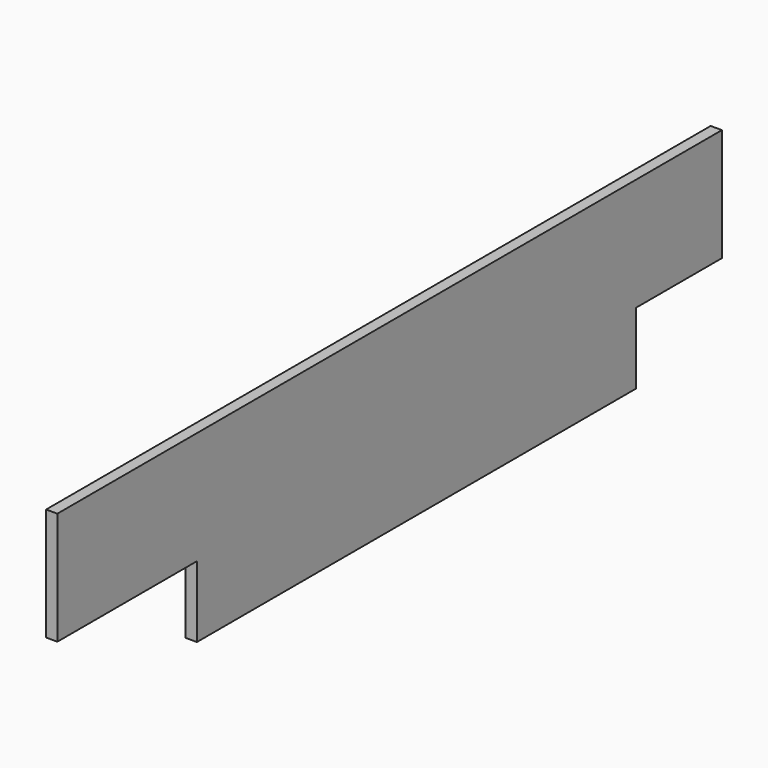
from build123d import *

# Parameters (mm, degrees)
BOX020_W     = 19
BOX020_H     = 1400
BOX020_DEPTH = 190
BOX025_W     = 19
BOX025_H     = 925
BOX025_DEPTH = 120


with BuildPart() as cube020:
    # Box020 → Box020 (new body)
    with BuildSketch(Plane(origin=(0, 281, 950), x_dir=(1, 0, 0), z_dir=(0, 0, 1))):
        with Locations((9.5, 700)):
            Rectangle(BOX020_W, BOX020_H)
    extrude(amount=BOX020_DEPTH)


with BuildPart() as footboard:
    # Box025 → Box025 (new body)
    with BuildSketch(Plane(origin=(0, 575, 830), x_dir=(1, 0, 0), z_dir=(0, 0, 1))):
        with Locations((9.5, 462.5)):
            Rectangle(BOX025_W, BOX025_H)
    extrude(amount=BOX025_DEPTH)

    # Fusion001: union Cube020
    add(cube020.part)


solid = footboard.part
